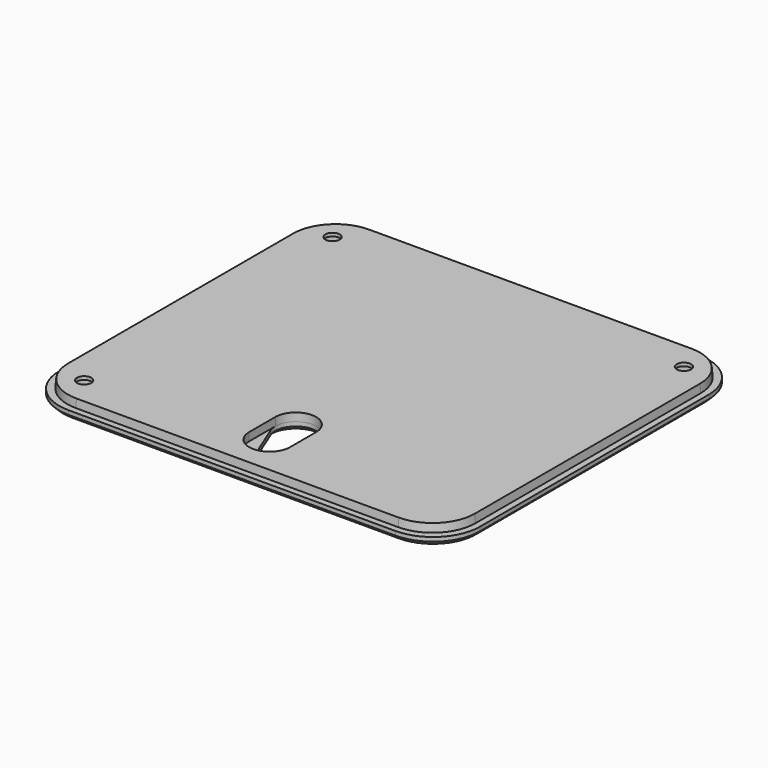
from build123d import *

# Parameters (mm, degrees)
PAD_DEPTH       = 2
PAD001_DEPTH    = 2
PAD001_TAPER    = 5
SKETCH002_R     = 3
POCKET_DEPTH    = 3.2
SKETCH003_R     = 1.75
POCKET001_DEPTH = 4.001
POCKET002_DEPTH = 4.001
POCKET003_DEPTH = 2
CHAMFER_SIZE    = 1


with BuildPart() as part:
    # Sketch → Pad (new body)
    with BuildSketch(Plane.XY):
        with BuildLine():
            Line((-40, -46.5), (40, -46.5))
            ThreePointArc((40, -46.5), (48.131728, -43.131728), (51.5, -35))
            Line((51.5, -35), (51.5, 35))
            ThreePointArc((51.5, 35), (48.131728, 43.131728), (40, 46.5))
            Line((40, 46.5), (-40, 46.5))
            ThreePointArc((-40, 46.5), (-48.131728, 43.131728), (-51.5, 35))
            Line((-51.5, 35), (-51.5, -35))
            ThreePointArc((-51.5, -35), (-48.131728, -43.131728), (-40, -46.5))
        make_face()
    extrude(amount=PAD_DEPTH)

    # Sketch001 (on Face10 of Pad) → Pad001 (join)
    with BuildSketch(Plane.XY.offset(2)):
        with BuildLine():
            Line((49.95, -34.45), (49.95, 34.45))
            ThreePointArc((49.95, 34.45), (46.874621, 41.874621), (39.45, 44.95))
            Line((39.45, 44.95), (-39.45, 44.95))
            ThreePointArc((-39.45, 44.95), (-46.874621, 41.874621), (-49.95, 34.45))
            Line((-49.95, 34.45), (-49.95, -34.45))
            ThreePointArc((-49.95, -34.45), (-46.874621, -41.874621), (-39.45, -44.95))
            Line((-39.45, -44.95), (39.45, -44.95))
            ThreePointArc((39.45, -44.95), (46.874621, -41.874621), (49.95, -34.45))
        make_face()
    extrude(amount=PAD001_DEPTH, taper=PAD001_TAPER)

    # Sketch002 (on Face4 of Pad001) → Pocket (cut)
    with BuildSketch(Plane(origin=(0, 0, 0), x_dir=(1, 0, 0), z_dir=(0, 0, -1))):
        with Locations((-43, 38)):
            Circle(SKETCH002_R)
        with Locations((-43, -38)):
            Circle(SKETCH002_R)
        with Locations((43, -38)):
            Circle(SKETCH002_R)
    extrude(amount=-POCKET_DEPTH, mode=Mode.SUBTRACT)

    # Sketch003 (on Face4 of Pocket) → Pocket001 (cut, through all)
    with BuildSketch(Plane(origin=(0, 0, 0), x_dir=(1, 0, 0), z_dir=(0, 0, -1))):
        with Locations((-43, 38)):
            Circle(SKETCH003_R)
        with Locations((-43, -38)):
            Circle(SKETCH003_R)
        with Locations((43, -38)):
            Circle(SKETCH003_R)
    extrude(amount=-POCKET001_DEPTH, mode=Mode.SUBTRACT)

    # Sketch004 (on Face4 of Pocket001) → Pocket002 (cut, through all)
    with BuildSketch(Plane(origin=(0, 0, 0), x_dir=(1, 0, 0), z_dir=(0, 0, -1))):
        with BuildLine():
            ThreePointArc((-4.635124, 28.875), (0, 22), (4.635124, 28.875))
            Line((1.85405, 35.75), (4.635124, 28.875))
            ThreePointArc((1.85405, 35.75), (0, 37), (-1.85405, 35.75))
            Line((-4.635124, 28.875), (-1.85405, 35.75))
        make_face()
    extrude(amount=-POCKET002_DEPTH, mode=Mode.SUBTRACT)

    # Sketch005 (on Face27 of Pocket002) → Pocket003 (cut)
    with BuildSketch(Plane.XY.offset(4)):
        with BuildLine():
            ThreePointArc((5.000006, -27), (0, -21.999994), (-5.000006, -27))
            Line((-5.000006, -27), (-5.000006, -35))
            ThreePointArc((-5.000006, -35), (0, -40.000006), (5.000006, -35))
            Line((5.000006, -27), (5.000006, -35))
        make_face()
    extrude(amount=-POCKET003_DEPTH, mode=Mode.SUBTRACT)

    # Chamfer
    chamfer_edges = [part.edges().sort_by_distance(p)[0] for p in [
        (0, -46.5, 0),
        (-48.131728, -43.131728, 0),
        (48.131728, -43.131728, 0),
        (-51.5, 0, 0),
        (51.5, 0, 0),
        (-48.131728, 43.131728, 0),
        (48.131728, 43.131728, 0),
        (0, 46.5, 0),
        (-46, -38, 0),
        (3.244587, -32.3125, 0),
        (0, -22, 0),
        (-3.244587, -32.3125, 0),
        (0, -37, 0),
        (-46, 38, 0),
        (40, 38, 0),
    ]]
    chamfer(chamfer_edges, length=CHAMFER_SIZE)


solid = part.part
